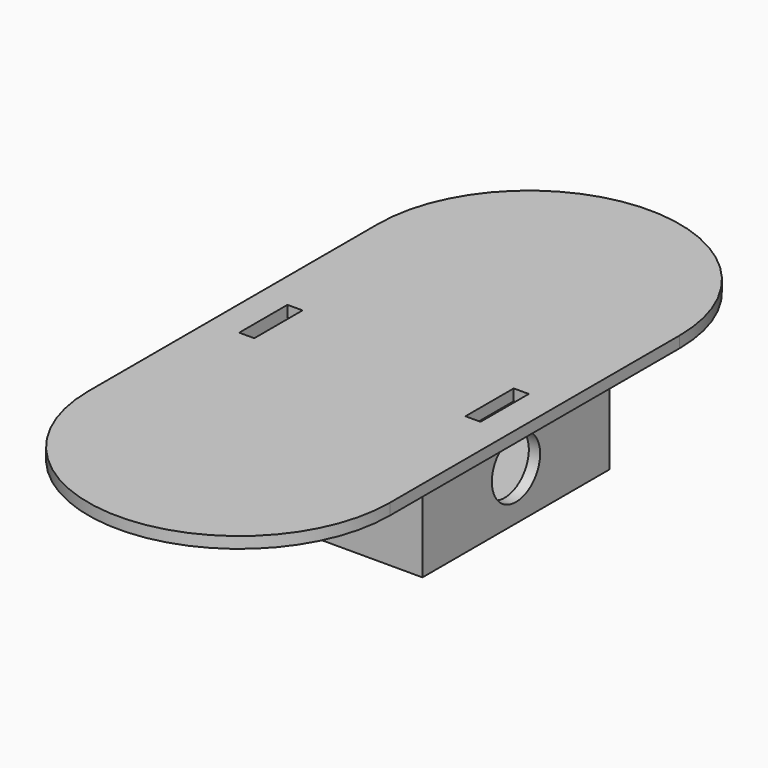
from build123d import *

# Parameters (mm, degrees)
F1_DEPTH  = 4.7625
F2_W      = 111.125
F2_H      = 98.425
F2_W_2    = 101.6
F2_H_2    = 88.9
F3_DEPTH  = 31.75
F5_D      = 25.4
F5_DEPTH  = 50.8
F6_W      = 6.35
F6_H      = 25.4
F7_DEPTH  = 4.7625
F9_W      = 111.125
F9_H      = 98.425
F10_DEPTH = 4.7625


with BuildPart() as f1:
    # F0 (on Top) → F1 (new body)
    with BuildSketch(Plane.XY):
        with BuildLine():
            ThreePointArc((-63.5, -76.2), (0, -139.7), (63.5, -76.2))
            Line((63.5, -76.2), (63.5, 76.2))
            ThreePointArc((63.5, 76.2), (0, 139.7), (-63.5, 76.2))
            Line((-63.5, 76.2), (-63.5, -76.2))
        make_face()
    extrude(amount=F1_DEPTH)

    # F2 (on face) → F3 (join)
    with BuildSketch(Plane(origin=(0, 0, 0), x_dir=(1, 0, 0), z_dir=(0, 0, -1))):
        Rectangle(F2_W, F2_H)
        Rectangle(F2_W_2, F2_H_2, mode=Mode.SUBTRACT)
    extrude(amount=F3_DEPTH)

    # F5
    with Locations(Plane.YZ.offset(55.5625)):
        with Locations((0, -15.875)):
            Hole(F5_D / 2, depth=F5_DEPTH)

    # F6 (on face) → F7 (cut)
    with BuildSketch(Plane.XY.offset(4.7625)):
        with Locations((47.625, 0)):
            Rectangle(F6_W, F6_H)
        with Locations((-47.625, 0)):
            Rectangle(F6_W, F6_H)
    extrude(amount=-F7_DEPTH, mode=Mode.SUBTRACT)

    # F9 (on offset) → F10 (join)
    with BuildSketch(Plane.XY.offset(-31.75)):
        Rectangle(F9_W, F9_H)
    extrude(amount=-F10_DEPTH)


solid = f1.part
